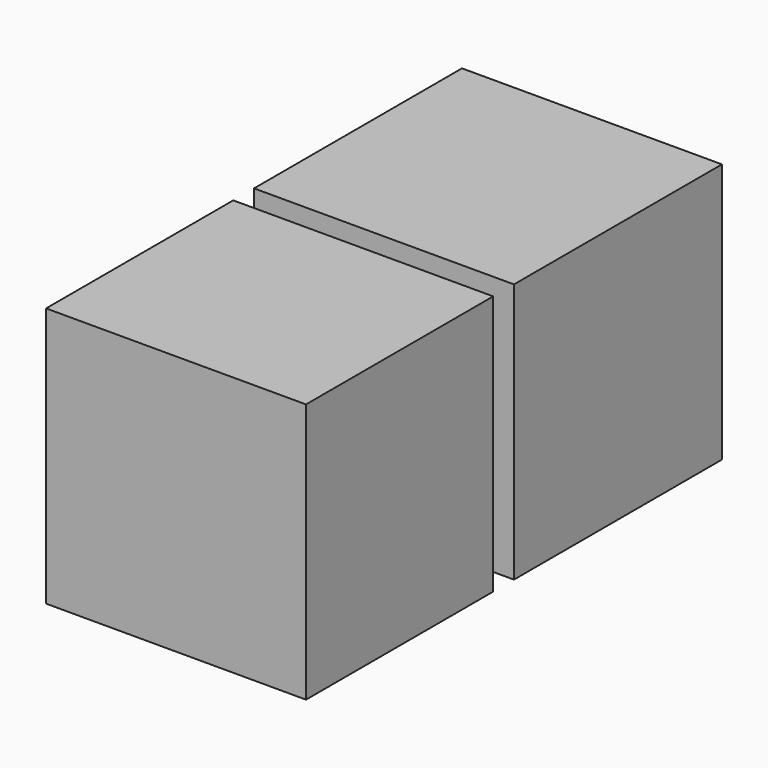
from build123d import *

# Parameters (mm, degrees)
F0_W          = 25.4
F0_H          = 25.4
F0_W_2        = 12.7
F0_H_2        = 4.318
F1_DEPTH      = 25.4
F1_DEPTH_BACK = 25.4
F2_DEPTH      = 2.54


with BuildPart() as f1:
    # F0 (on Front) → F1 (new body, two sides)
    with BuildSketch(Plane.XZ) as f1_sk:
        Rectangle(F0_W, F0_H)
        with BuildLine():
            Line((-8.89, 8.89), (7.747, 8.89))
            ThreePointArc((7.747, 8.89), (8.89, 10.033), (10.033, 8.89))
            ThreePointArc((10.033, 8.89), (9.6982230509, 8.0817769491), (8.89, 7.747))
            Line((8.89, 7.747), (8.89, 4.5230260413))
            ThreePointArc((8.89, 4.5230260413), (9.1254762203, 4.1320128061), (9.2075, 3.683))
            Line((9.2075, 3.683), (9.2075, 1.905))
            ThreePointArc((9.2075, 1.905), (9.1254762203, 1.4559871939), (8.89, 1.0649739587))
            Line((8.89, 1.0649739587), (8.89, -8.89))
            Line((8.89, -8.89), (-7.747, -8.89))
            ThreePointArc((-7.747, -8.89), (-9.6982230509, -9.6982230509), (-8.89, -7.747))
            Line((-8.89, -7.747), (-8.89, 1.0649739587))
            ThreePointArc((-8.89, 1.0649739587), (-9.1254762203, 1.4559871939), (-9.2075, 1.905))
            Line((-9.2075, 1.905), (-9.2075, 3.683))
            ThreePointArc((-9.2075, 3.683), (-9.1254762203, 4.1320128061), (-8.89, 4.5230260413))
            Line((-8.89, 4.5230260413), (-8.89, 8.89))
        make_face(mode=Mode.SUBTRACT)
        with BuildLine():
            Line((8.89, -8.89), (8.89, 1.0649739587))
            ThreePointArc((8.89, 1.0649739587), (8.4600260413, 0.7474739587), (7.9375, 0.635))
            Line((7.9375, 0.635), (6.35, 0.635))
            Line((6.35, 0.635), (6.35, -1.27))
            ThreePointArc((6.35, -1.27), (5.9780256121, -2.1680256121), (5.08, -2.54))
            Line((5.08, -2.54), (-5.08, -2.54))
            ThreePointArc((-5.08, -2.54), (-5.9780256121, -2.1680256121), (-6.35, -1.27))
            Line((-6.35, -1.27), (-6.35, 0.635))
            Line((-6.35, 0.635), (-7.9375, 0.635))
            ThreePointArc((-7.9375, 0.635), (-8.4600260413, 0.7474739587), (-8.89, 1.0649739587))
            Line((-8.89, 1.0649739587), (-8.89, -7.747))
            ThreePointArc((-8.89, -7.747), (-8.0817769491, -8.0817769491), (-7.747, -8.89))
            Line((-7.747, -8.89), (8.89, -8.89))
        make_face()
        with BuildLine():
            ThreePointArc((8.89, 7.747), (8.0817769491, 8.0817769491), (7.747, 8.89))
            Line((7.747, 8.89), (-8.89, 8.89))
            Line((-8.89, 8.89), (-8.89, 4.5230260413))
            ThreePointArc((-8.89, 4.5230260413), (-8.4600260413, 4.8405260413), (-7.9375, 4.953))
            Line((-7.9375, 4.953), (-6.35, 4.953))
            Line((-6.35, 4.953), (-6.35, 6.858))
            ThreePointArc((-6.35, 6.858), (-5.9780256121, 7.7560256121), (-5.08, 8.128))
            Line((-5.08, 8.128), (5.08, 8.128))
            ThreePointArc((5.08, 8.128), (5.9780256121, 7.7560256121), (6.35, 6.858))
            Line((6.35, 6.858), (6.35, 4.953))
            Line((6.35, 4.953), (7.9375, 4.953))
            ThreePointArc((7.9375, 4.953), (8.4600260413, 4.8405260413), (8.89, 4.5230260413))
            Line((8.89, 4.5230260413), (8.89, 7.747))
        make_face()
        with BuildLine():
            Line((8.89, 7.747), (8.89, 8.89))
            Line((8.89, 8.89), (7.747, 8.89))
            ThreePointArc((7.747, 8.89), (8.0817769491, 8.0817769491), (8.89, 7.747))
        make_face()
        with BuildLine():
            Line((7.747, 8.89), (8.89, 8.89))
            Line((8.89, 8.89), (8.89, 7.747))
            ThreePointArc((8.89, 7.747), (9.6982230509, 8.0817769491), (10.033, 8.89))
            ThreePointArc((10.033, 8.89), (8.89, 10.033), (7.747, 8.89))
        make_face()
        with BuildLine():
            ThreePointArc((-7.747, -8.89), (-8.0817769491, -8.0817769491), (-8.89, -7.747))
            Line((-8.89, -7.747), (-8.89, -8.89))
            Line((-8.89, -8.89), (-7.747, -8.89))
        make_face()
        with BuildLine():
            Line((-8.89, -8.89), (-8.89, -7.747))
            ThreePointArc((-8.89, -7.747), (-9.6982230509, -9.6982230509), (-7.747, -8.89))
            Line((-7.747, -8.89), (-8.89, -8.89))
        make_face()
        with Locations((0, 2.794)):
            Rectangle(F0_W_2, F0_H_2)
        with BuildLine():
            ThreePointArc((-7.9375, 4.953), (-8.4600260413, 4.8405260413), (-8.89, 4.5230260413))
            Line((-8.89, 4.5230260413), (-8.89, 1.0649739587))
            ThreePointArc((-8.89, 1.0649739587), (-8.4600260413, 0.7474739587), (-7.9375, 0.635))
            Line((-7.9375, 0.635), (-6.35, 0.635))
            Line((-6.35, 0.635), (-6.35, 4.953))
            Line((-6.35, 4.953), (-7.9375, 4.953))
        make_face()
        with BuildLine():
            Line((8.89, 1.0649739587), (8.89, 4.5230260413))
            ThreePointArc((8.89, 4.5230260413), (8.4600260413, 4.8405260413), (7.9375, 4.953))
            Line((7.9375, 4.953), (6.35, 4.953))
            Line((6.35, 4.953), (6.35, 0.635))
            Line((6.35, 0.635), (7.9375, 0.635))
            ThreePointArc((7.9375, 0.635), (8.4600260413, 0.7474739587), (8.89, 1.0649739587))
        make_face()
        with BuildLine():
            ThreePointArc((9.2075, 3.683), (9.1254762203, 4.1320128061), (8.89, 4.5230260413))
            Line((8.89, 4.5230260413), (8.89, 1.0649739587))
            ThreePointArc((8.89, 1.0649739587), (9.1254762203, 1.4559871939), (9.2075, 1.905))
            Line((9.2075, 1.905), (9.2075, 3.683))
        make_face()
        with BuildLine():
            Line((6.35, -1.27), (6.35, 0.635))
            Line((6.35, 0.635), (-6.35, 0.635))
            Line((-6.35, 0.635), (-6.35, -1.27))
            ThreePointArc((-6.35, -1.27), (-5.9780256121, -2.1680256121), (-5.08, -2.54))
            Line((-5.08, -2.54), (5.08, -2.54))
            ThreePointArc((5.08, -2.54), (5.9780256121, -2.1680256121), (6.35, -1.27))
        make_face()
        with BuildLine():
            Line((-6.35, 4.953), (6.35, 4.953))
            Line((6.35, 4.953), (6.35, 6.858))
            ThreePointArc((6.35, 6.858), (5.9780256121, 7.7560256121), (5.08, 8.128))
            Line((5.08, 8.128), (-5.08, 8.128))
            ThreePointArc((-5.08, 8.128), (-5.9780256121, 7.7560256121), (-6.35, 6.858))
            Line((-6.35, 6.858), (-6.35, 4.953))
        make_face()
        with BuildLine():
            Line((-8.89, 1.0649739587), (-8.89, 4.5230260413))
            ThreePointArc((-8.89, 4.5230260413), (-9.1254762203, 4.1320128061), (-9.2075, 3.683))
            Line((-9.2075, 3.683), (-9.2075, 1.905))
            ThreePointArc((-9.2075, 1.905), (-9.1254762203, 1.4559871939), (-8.89, 1.0649739587))
        make_face()
    extrude(amount=-F1_DEPTH)
    extrude(f1_sk.sketch, amount=F1_DEPTH_BACK)

    # F0 (on Front) → F2 (cut)
    with BuildSketch(Plane.XZ):
        Rectangle(F0_W, F0_H)
        with BuildLine():
            Line((-8.89, 8.89), (7.747, 8.89))
            ThreePointArc((7.747, 8.89), (8.89, 10.033), (10.033, 8.89))
            ThreePointArc((10.033, 8.89), (9.6982230509, 8.0817769491), (8.89, 7.747))
            Line((8.89, 7.747), (8.89, 4.5230260413))
            ThreePointArc((8.89, 4.5230260413), (9.1254762203, 4.1320128061), (9.2075, 3.683))
            Line((9.2075, 3.683), (9.2075, 1.905))
            ThreePointArc((9.2075, 1.905), (9.1254762203, 1.4559871939), (8.89, 1.0649739587))
            Line((8.89, 1.0649739587), (8.89, -8.89))
            Line((8.89, -8.89), (-7.747, -8.89))
            ThreePointArc((-7.747, -8.89), (-9.6982230509, -9.6982230509), (-8.89, -7.747))
            Line((-8.89, -7.747), (-8.89, 1.0649739587))
            ThreePointArc((-8.89, 1.0649739587), (-9.1254762203, 1.4559871939), (-9.2075, 1.905))
            Line((-9.2075, 1.905), (-9.2075, 3.683))
            ThreePointArc((-9.2075, 3.683), (-9.1254762203, 4.1320128061), (-8.89, 4.5230260413))
            Line((-8.89, 4.5230260413), (-8.89, 8.89))
        make_face(mode=Mode.SUBTRACT)
        with BuildLine():
            ThreePointArc((8.89, 7.747), (8.0817769491, 8.0817769491), (7.747, 8.89))
            Line((7.747, 8.89), (-8.89, 8.89))
            Line((-8.89, 8.89), (-8.89, 4.5230260413))
            ThreePointArc((-8.89, 4.5230260413), (-8.4600260413, 4.8405260413), (-7.9375, 4.953))
            Line((-7.9375, 4.953), (-6.35, 4.953))
            Line((-6.35, 4.953), (-6.35, 6.858))
            ThreePointArc((-6.35, 6.858), (-5.9780256121, 7.7560256121), (-5.08, 8.128))
            Line((-5.08, 8.128), (5.08, 8.128))
            ThreePointArc((5.08, 8.128), (5.9780256121, 7.7560256121), (6.35, 6.858))
            Line((6.35, 6.858), (6.35, 4.953))
            Line((6.35, 4.953), (7.9375, 4.953))
            ThreePointArc((7.9375, 4.953), (8.4600260413, 4.8405260413), (8.89, 4.5230260413))
            Line((8.89, 4.5230260413), (8.89, 7.747))
        make_face()
        with BuildLine():
            Line((8.89, -8.89), (8.89, 1.0649739587))
            ThreePointArc((8.89, 1.0649739587), (8.4600260413, 0.7474739587), (7.9375, 0.635))
            Line((7.9375, 0.635), (6.35, 0.635))
            Line((6.35, 0.635), (6.35, -1.27))
            ThreePointArc((6.35, -1.27), (5.9780256121, -2.1680256121), (5.08, -2.54))
            Line((5.08, -2.54), (-5.08, -2.54))
            ThreePointArc((-5.08, -2.54), (-5.9780256121, -2.1680256121), (-6.35, -1.27))
            Line((-6.35, -1.27), (-6.35, 0.635))
            Line((-6.35, 0.635), (-7.9375, 0.635))
            ThreePointArc((-7.9375, 0.635), (-8.4600260413, 0.7474739587), (-8.89, 1.0649739587))
            Line((-8.89, 1.0649739587), (-8.89, -7.747))
            ThreePointArc((-8.89, -7.747), (-8.0817769491, -8.0817769491), (-7.747, -8.89))
            Line((-7.747, -8.89), (8.89, -8.89))
        make_face()
    extrude(amount=F2_DEPTH, mode=Mode.SUBTRACT)


solid = f1.part
